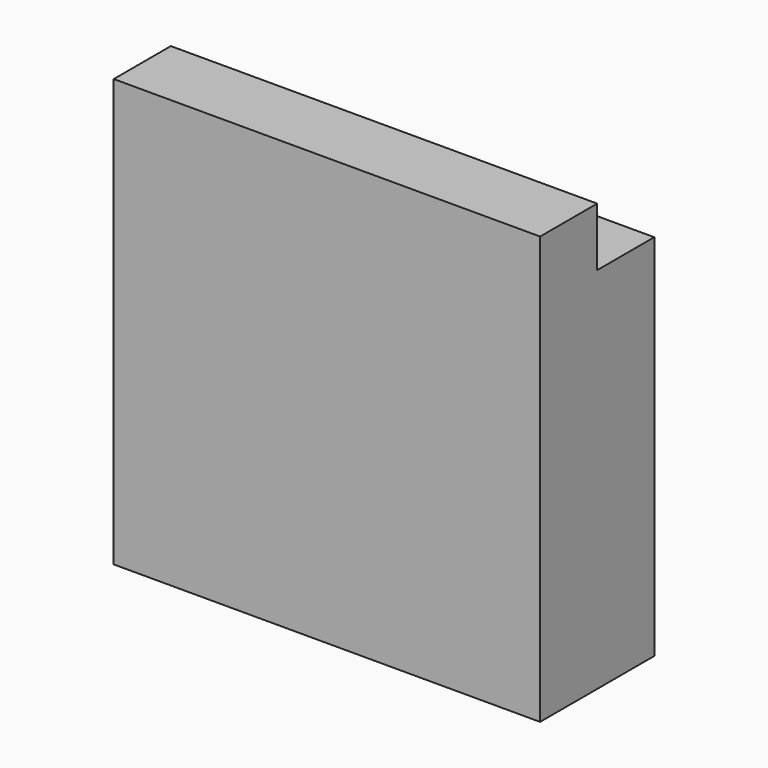
from build123d import *

# Parameters (mm, degrees)
F1_DEPTH = 25.4
F2_W     = 151.775382
F2_H     = 131.256286
F3_DEPTH = 25.4
F4_R     = 6.35
F5_DEPTH = 15.24


with BuildPart() as f1:
    # F0 (on Front) → F1 (new body)
    with BuildSketch(Plane.XZ):
        Polygon((-75.533889, 76.327696), (-75.533889, 61.938155), (-75.533889, -75.790301), (72.815411, -75.790301), (76.241493, -75.790301), (76.241493, 76.327696), align=None)
    extrude(amount=F1_DEPTH)

    # F2 (on face) → F3 (join)
    with BuildSketch(Plane(origin=(0, 0, 0), x_dir=(-1, 0, 0), z_dir=(0, 1, 0))):
        with Locations((-0.353802, -10.162158)):
            Rectangle(F2_W, F2_H)
    extrude(amount=F3_DEPTH)

    # F4 (on face) → F5 (cut)
    with BuildSketch(Plane(origin=(0, 0, 0), x_dir=(-1, 0, 0), z_dir=(0, 1, 0))):
        with Locations((-55.87405, 65.896841)):
            Circle(F4_R)
        with Locations((0, 65.896851)):
            Circle(F4_R)
        with Locations((51.929399, 65.896851)):
            Circle(F4_R)
    extrude(amount=-F5_DEPTH, mode=Mode.SUBTRACT)


solid = f1.part
